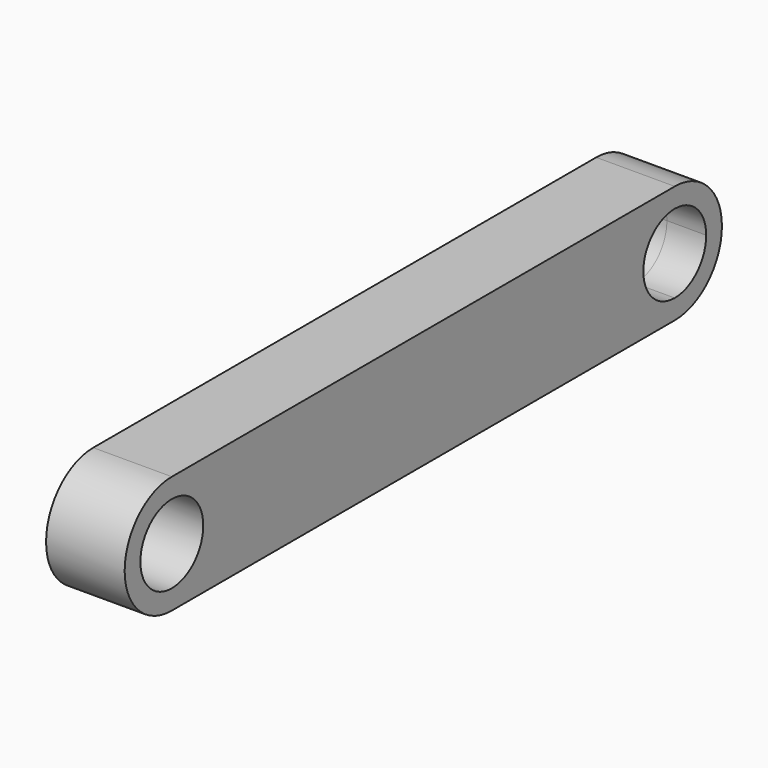
from build123d import *

# Parameters (mm, degrees)
F0_R     = 6.35
F1_DEPTH = 6.35


with BuildPart() as f1:
    # F0 (on Right) → F1 (new body, symmetric)
    with BuildSketch(Plane.YZ):
        with BuildLine():
            ThreePointArc((-50.8, -9.525), (-44.0648079092, -6.7351920908), (-41.275, 0))
            ThreePointArc((-41.275, 0), (-44.0648079092, 6.7351920908), (-50.8, 9.525))
            ThreePointArc((-50.8, 9.525), (-60.325, 0), (-50.8, -9.525))
        make_face()
        with Locations((-50.8, 0)):
            Circle(F0_R, mode=Mode.SUBTRACT)
        with BuildLine():
            ThreePointArc((-50.8, 9.525), (-44.0648079092, 6.7351920908), (-41.275, 0))
            Line((-41.275, 0), (41.275, 0))
            ThreePointArc((41.275, 0), (44.0648079092, 6.7351920908), (50.8, 9.525))
            Line((50.8, 9.525), (-50.8, 9.525))
        make_face()
        with BuildLine():
            ThreePointArc((50.8, 9.525), (44.0648079092, 6.7351920908), (41.275, 0))
            Line((41.275, 0), (44.45, 0))
            ThreePointArc((44.45, 0), (46.3098719395, 4.4901280605), (50.8, 6.35))
            Line((50.8, 6.35), (50.8, 9.525))
        make_face()
        with BuildLine():
            ThreePointArc((60.325, 0), (57.5351920908, 6.7351920908), (50.8, 9.525))
            Line((50.8, 9.525), (50.8, 6.35))
            ThreePointArc((50.8, 6.35), (55.2901280605, 4.4901280605), (57.15, 0))
            ThreePointArc((57.15, 0), (55.2901280605, -4.4901280605), (50.8, -6.35))
            Line((50.8, -6.35), (50.8, -9.525))
            ThreePointArc((50.8, -9.525), (57.5351920908, -6.7351920908), (60.325, 0))
        make_face()
        with BuildLine():
            Line((44.45, 0), (41.275, 0))
            ThreePointArc((41.275, 0), (44.0648079092, -6.7351920908), (50.8, -9.525))
            Line((50.8, -9.525), (50.8, -6.35))
            ThreePointArc((50.8, -6.35), (46.3098719395, -4.4901280605), (44.45, 0))
        make_face()
        with BuildLine():
            Line((41.275, 0), (-41.275, 0))
            ThreePointArc((-41.275, 0), (-44.0648079092, -6.7351920908), (-50.8, -9.525))
            Line((-50.8, -9.525), (50.8, -9.525))
            ThreePointArc((50.8, -9.525), (44.0648079092, -6.7351920908), (41.275, 0))
        make_face()
    extrude(amount=F1_DEPTH, both=True)


solid = f1.part
